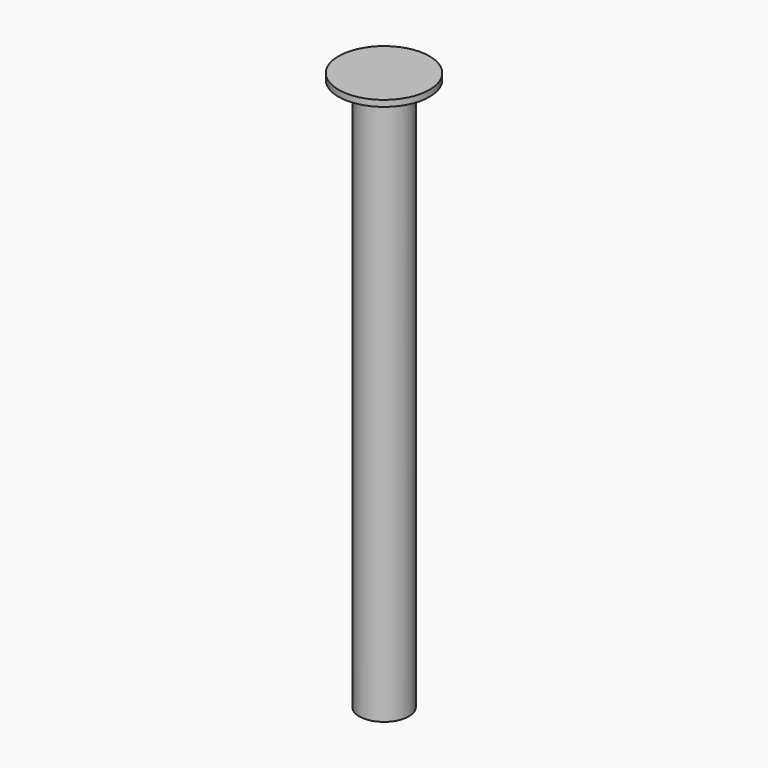
from build123d import *

# Parameters (mm, degrees)
F0_R     = 60
F0_R_2   = 110
F3_DEPTH = 15


with BuildPart() as f2:
    # F2: sweep along a path in F1
    with BuildLine(Plane.XZ) as f2_path:
        Line((0, 0), (0, -1350))
    # F0 (on Top) → F2 (sweep)
    with BuildSketch(Plane.XY):
        Circle(F0_R)
    sweep(path=f2_path.line)

    # F0 (on Top) → F3 (join)
    with BuildSketch(Plane.XY):
        Circle(F0_R_2)
        Circle(F0_R, mode=Mode.SUBTRACT)
    extrude(amount=-F3_DEPTH)


solid = f2.part
